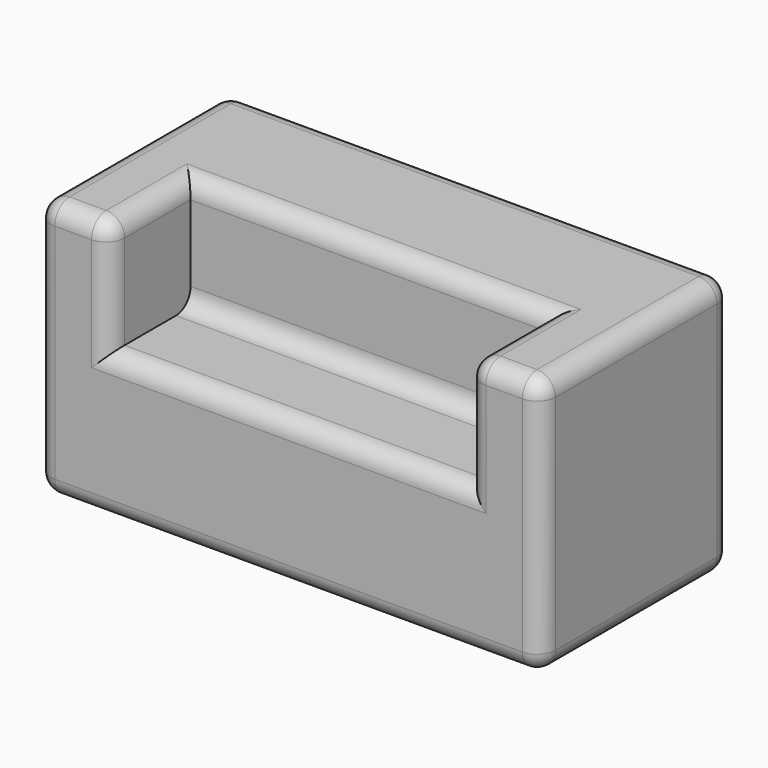
from build123d import *

# Parameters (mm, degrees)
F0_W     = 139.7
F0_H     = 66.04
F1_DEPTH = 40.64
F2_W     = 99.06
F2_H     = 38.1
F3_DEPTH = 31.242
F4_R     = 5.08


with BuildPart() as f1:
    # F0 (on Top) → F1 (new body)
    with BuildSketch(Plane.XY):
        with Locations((-57.2554800045, -25.2220156343)):
            Rectangle(F0_W, F0_H)
    extrude(amount=F1_DEPTH)

    # F2 (on face) → F3 (join)
    with BuildSketch(Plane.XY.offset(40.64)):
        Polygon((-106.7854800045, 7.7979843657), (-127.1054800045, 7.7979843657), (-127.1054800045, -58.2420156343), (-106.7854800045, -58.2420156343), (-106.7854800045, -30.3020156343), align=None)
        Polygon((12.5945199955, 7.7979843657), (-7.7254800045, 7.7979843657), (-7.7254800045, -30.3020156343), (-7.7254800045, -58.2420156343), (12.5945199955, -58.2420156343), align=None)
        with Locations((-57.2554800045, -11.2520156343)):
            Rectangle(F2_W, F2_H)
    extrude(amount=F3_DEPTH)

    # F4
    f4_edges = [f1.edges().sort_by_distance(p)[0] for p in [
        (-57.25548, -30.302016, 71.882),
        (-7.72548, -44.272016, 71.882),
        (-106.78548, -44.272016, 71.882),
        (2.43452, -58.242016, 71.882),
        (12.59452, -25.222016, 71.882),
        (-116.94548, -58.242016, 71.882),
        (-127.10548, -25.222016, 71.882),
        (-57.25548, 7.797984, 71.882),
        (12.59452, -58.242016, 35.941),
        (-7.72548, -58.242016, 56.261),
        (-57.25548, -58.242016, 40.64),
        (-57.25548, -30.302016, 40.64),
        (-106.78548, -58.242016, 56.261),
        (-127.10548, -58.242016, 35.941),
        (-57.25548, -58.242016, 0),
        (-127.10548, -25.222016, 0),
        (-57.25548, 7.797984, 0),
        (-127.10548, 7.797984, 35.941),
        (12.59452, 7.797984, 35.941),
        (12.59452, -25.222016, 0),
    ]]
    fillet(f4_edges, radius=F4_R)


solid = f1.part
